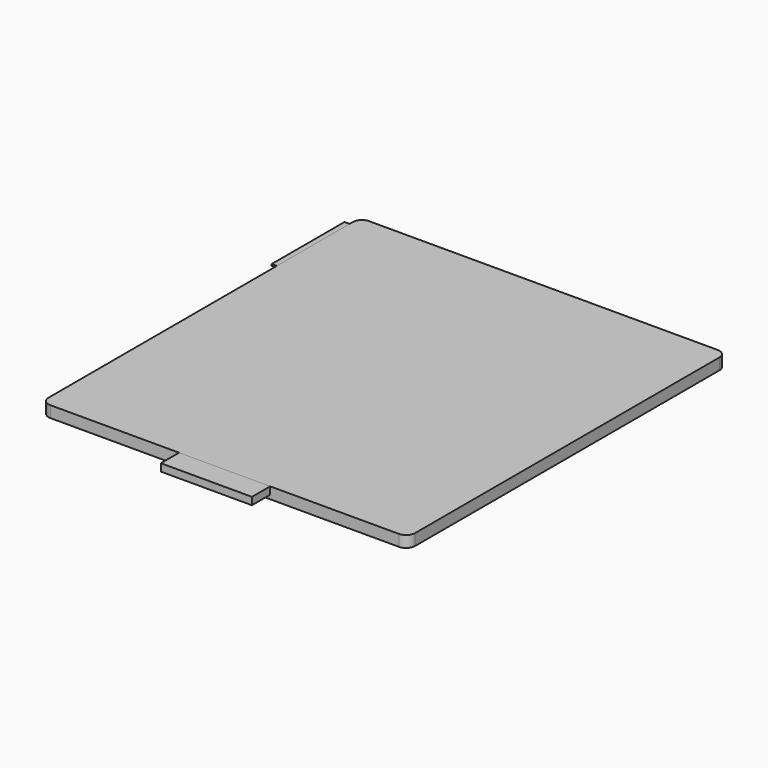
from build123d import *

# Parameters (mm, degrees)
BOX001_W     = 16
BOX001_H     = 4
BOX001_DEPTH = 1.3
BOX_W        = 64.4
BOX_H        = 70
BOX_DEPTH    = 2
FILLET_R     = 1.6
BOX002_W     = 0.9
BOX002_H     = 16
BOX002_DEPTH = 0.3


with BuildPart() as cube001:
    # Box001 → Box001 (new body)
    with BuildSketch(Plane(origin=(-8, -4, 0.7), x_dir=(1, 0, 0), z_dir=(0, 0, 1))):
        with Locations((8, 2)):
            Rectangle(BOX001_W, BOX001_H)
    extrude(amount=BOX001_DEPTH)


with BuildPart() as fillet_body:
    # Box → Box (new body)
    with BuildSketch(Plane(origin=(-32.2, 0, 0), x_dir=(1, 0, 0), z_dir=(0, 0, 1))):
        with Locations((32.2, 35)):
            Rectangle(BOX_W, BOX_H)
    extrude(amount=BOX_DEPTH)

    # Fillet
    fillet_edges = [fillet_body.edges().sort_by_distance(p)[0] for p in [
        (-32.2, 0, 1),
        (-32.2, 70, 1),
        (32.2, 0, 1),
        (32.2, 70, 1),
    ]]
    fillet(fillet_edges, radius=FILLET_R)


with BuildPart() as cube002:
    # Box002 → Box002 (new body)
    with BuildSketch(Plane(origin=(32.2, 51.7, 1.7), x_dir=(1, 0, 0), z_dir=(0, 0, 1))):
        with Locations((0.45, 8)):
            Rectangle(BOX002_W, BOX002_H)
    extrude(amount=BOX002_DEPTH)


with BuildPart() as part_mirroring:
    # Part__Mirroring: instance of Cube002
    add(cube002.part.mirror(Plane(origin=(0, 0, 0), x_dir=(0, -1, 0), z_dir=(1, 0, 0))))


solid = Compound([cube001.part, fillet_body.part, part_mirroring.part])
